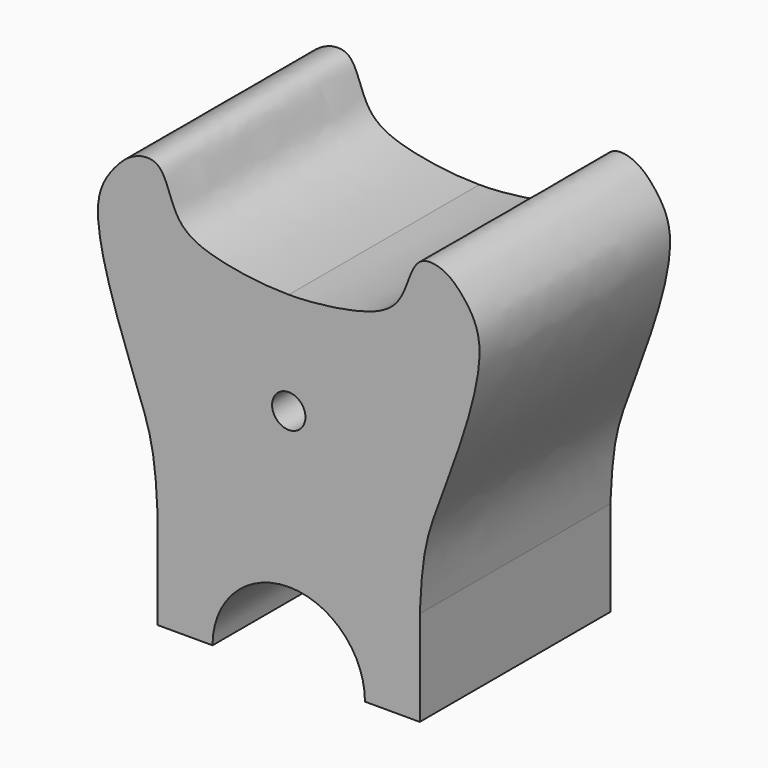
from build123d import *

# Parameters (mm, degrees)
F0_R     = 3.5
F1_DEPTH = 50


with BuildPart() as f1:
    # F0 (on Front) → F1 (new body)
    with BuildSketch(Plane.XZ):
        with BuildLine():
            ThreePointArc((-13.0772360108, 4.2840707704), (2.9227639892, 20.2840707704), (18.9227639892, 4.2840707704))
            Line((18.9227639892, 4.2840707704), (30.4227639892, 4.2840707704))
            Line((30.4227639892, 4.2840707704), (30.4227639892, 24.2840707704))
            add(Edge.make_bspline(
                [(30.4227639892, 24.2840707704), (30.8671611705, 34.7561910406), (32.5654809257, 41.5893855226), (38.7010799922, 56.893823778), (44.9407681506, 77.7666580733), (40.0231020036, 85.5430262459), (35.9060512587, 89.7340311048), (29.2447763763, 90.6623921751), (27.3229184832, 81.2172881869), (21.3065677583, 75.9184540238), (8.5326332146, 74.2847687026), (2.9227639892, 74.2840707704)],
                knots=[0, 0, 0, 0, 0.1429383225, 0.2728819911, 0.4252410038, 0.5201836047, 0.5990755134, 0.6728608532, 0.7666191343, 0.8590264165, 1, 1, 1, 1], degree=3))
            add(Edge.make_bspline(
                [(-37.0772360108, 77.987650375), (-36.798288493, 81.398857047), (-34.1775740252, 85.5430262459), (-30.0605232803, 89.7340311048), (-23.3992483979, 90.6623921751), (-21.4773905047, 81.2172881869), (-15.4610397799, 75.9184540238), (-2.6871052361, 74.2847687026), (2.9227639892, 74.2840707704)],
                knots=[0.4252410038, 0.4252410038, 0.4252410038, 0.4252410038, 0.5201836047, 0.5990755134, 0.6728608532, 0.7666191343, 0.8590264165, 1, 1, 1, 1], degree=3))
            Line((-37.0772360108, 77.987650375), (-37.0772360108, 75.1544258643))
            add(Edge.make_bspline(
                [(-24.5772360108, 24.2840707704), (-25.021633192, 34.7561910406), (-26.7199529473, 41.5893855226), (-32.5041406664, 56.0172747712), (-36.7236328621, 69.8590164846), (-37.0772360108, 75.1544258643)],
                knots=[0, 0, 0, 0, 0.1429383225, 0.2728819911, 0.400885678, 0.400885678, 0.400885678, 0.400885678], degree=3))
            Line((-24.5772360108, 24.2840707704), (-24.5772360108, 4.2840707704))
            Line((-24.5772360108, 4.2840707704), (-13.0772360108, 4.2840707704))
        make_face()
        with Locations((2.9227639892, 52.7840707704)):
            Circle(F0_R, mode=Mode.SUBTRACT)
        with BuildLine():
            add(Edge.make_bspline(
                [(-37.0772360108, 75.1544258643), (-37.1445162594, 76.1619860655), (-37.1487935371, 77.1125842935), (-37.0772360108, 77.987650375)],
                knots=[0.400885678, 0.400885678, 0.400885678, 0.400885678, 0.4252410038, 0.4252410038, 0.4252410038, 0.4252410038], degree=3))
            Line((-37.0772360108, 75.1544258643), (-37.0772360108, 77.987650375))
        make_face()
    extrude(amount=F1_DEPTH)


solid = f1.part
